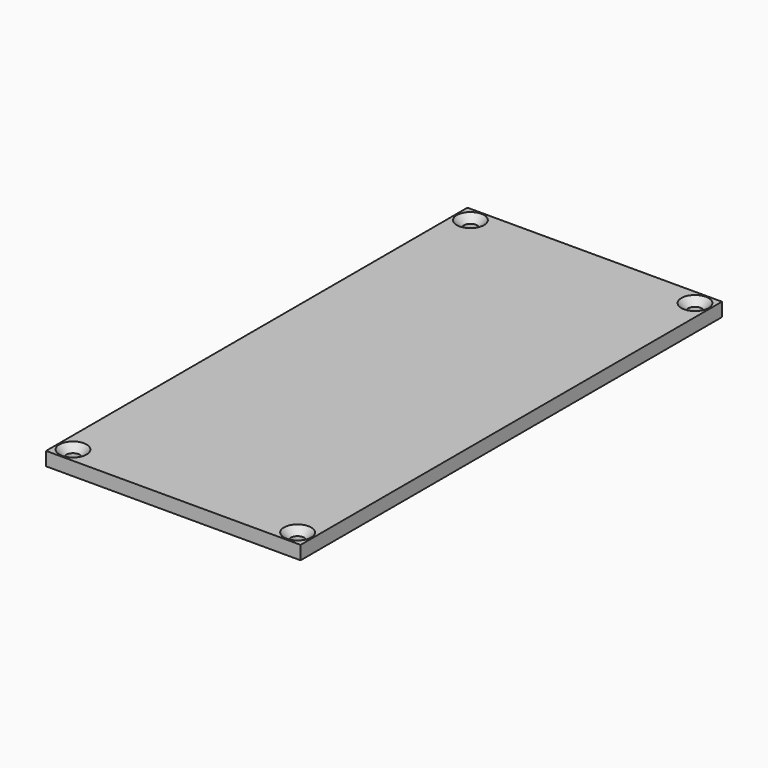
from build123d import *

# Parameters (mm, degrees)
F0_W     = 37.4
F0_H     = 77.4
F0_R     = 1
F1_DEPTH = 2
F2_SIZE2 = 1
F2_SIZE  = 1


with BuildPart() as f1:
    # F0 (on Top) → F1 (new body)
    with BuildSketch(Plane.XY):
        Rectangle(F0_W, F0_H)
        with Locations((-16.5, -36.5)):
            Circle(F0_R, mode=Mode.SUBTRACT)
        with Locations((16.5, -36.5)):
            Circle(F0_R, mode=Mode.SUBTRACT)
        with Locations((-16.5, 36.5)):
            Circle(F0_R, mode=Mode.SUBTRACT)
        with Locations((16.5, 36.5)):
            Circle(F0_R, mode=Mode.SUBTRACT)
    extrude(amount=F1_DEPTH)

    # F2
    f2_edges = [f1.edges().sort_by_distance(p)[0] for p in [
        (-17.5, -36.5, 2),
        (15.5, -36.5, 2),
        (15.5, 36.5, 2),
        (-17.5, 36.5, 2),
    ]]
    chamfer(f2_edges, length=F2_SIZE, length2=F2_SIZE2)


solid = f1.part
